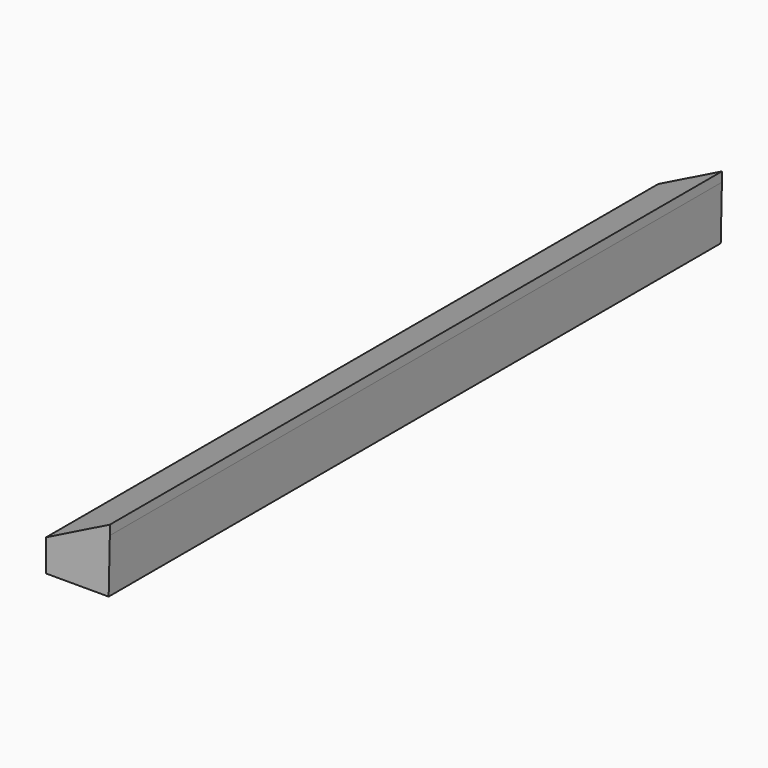
from build123d import *

# Parameters (mm, degrees)
F0_W     = 25.4
F0_H     = 25.4
F1_DEPTH = 152.4
F3_DEPTH = 304.801


with BuildPart() as f1:
    # F0 (on Front) → F1 (new body, symmetric)
    with BuildSketch(Plane.XZ):
        Rectangle(F0_W, F0_H)
    extrude(amount=F1_DEPTH, both=True)

    # F2 (on face) → F3 (cut, through all)
    with BuildSketch(Plane.XZ.offset(152.4)):
        Polygon((12.7, -12.7), (12.7, 8.89), (12.228905, -12.7), align=None)
        Polygon((-12.7, 0), (12.7, 12.7), (-12.7, 12.7), align=None)
    extrude(amount=-F3_DEPTH, mode=Mode.SUBTRACT)


solid = f1.part
